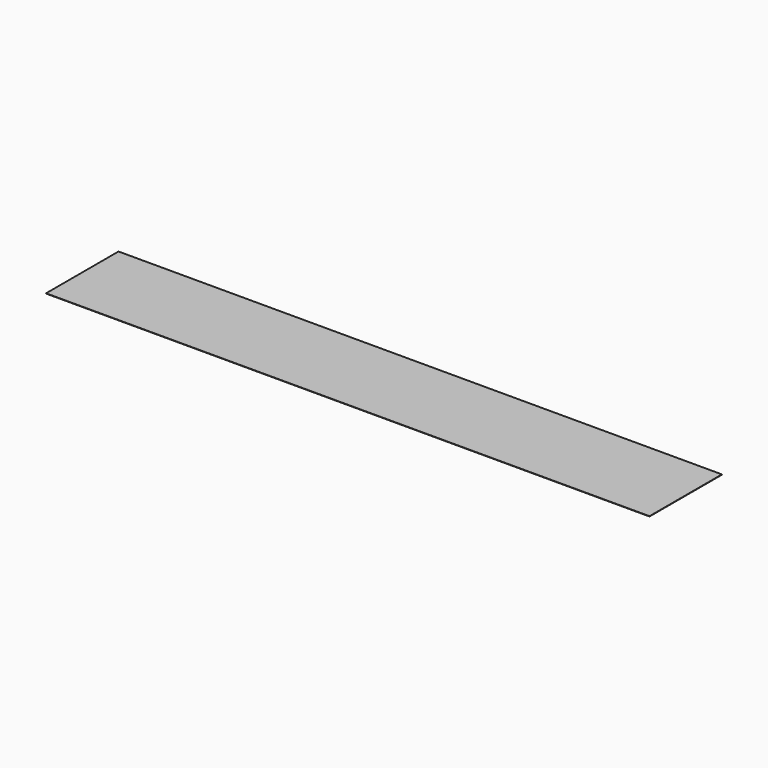
from build123d import *

# Parameters (mm, degrees)
F0_W     = 400
F0_H     = 300
F1_DEPTH = 1


with BuildPart() as f1:
    # F0 (on Top) → F1 (new body)
    with BuildSketch(Plane.XY):
        with Locations((-138.537645, 59.642086)):
            Rectangle(F0_W, F0_H)
        with Locations((-538.537645, 59.642086)):
            Rectangle(F0_W, F0_H)
        with Locations((261.462355, 59.642086)):
            Rectangle(F0_W, F0_H)
        with Locations((-938.537645, 59.642086)):
            Rectangle(F0_W, F0_H)
        with Locations((661.462355, 59.642086)):
            Rectangle(F0_W, F0_H)
    extrude(amount=F1_DEPTH)


solid = f1.part
